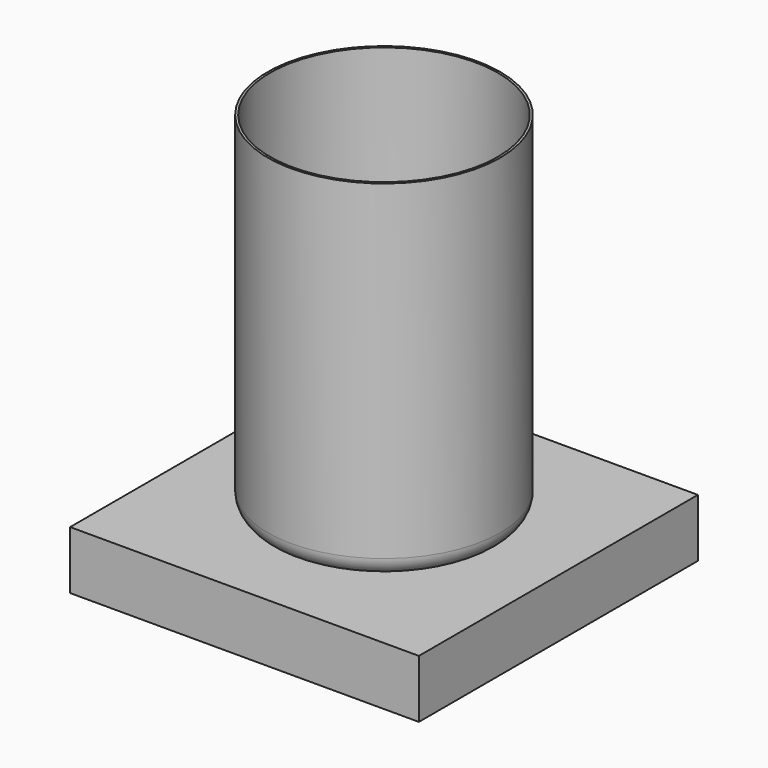
from build123d import *

# Parameters (mm, degrees)
F0_R     = 50
F1_DEPTH = 150
F2_R     = 8
F3_T     = -1
F4_W     = 150
F4_H     = 150
F5_DEPTH = 25


with BuildPart() as f1:
    # F0 (on Top) → F1 (new body)
    with BuildSketch(Plane.XY):
        Circle(F0_R)
    extrude(amount=F1_DEPTH)

    # F2
    f2_edges = [f1.edges().sort_by_distance(p)[0] for p in [
        (-50, 0, 0),
    ]]
    fillet(f2_edges, radius=F2_R)

    # F3
    f3_openings = [f1.faces().sort_by_distance(p)[0] for p in [
        (0, 0, 150),
    ]]
    offset(amount=F3_T, openings=f3_openings)


with BuildPart() as f5:
    # F4 (on Top) → F5 (new body)
    with BuildSketch(Plane.XY):
        Rectangle(F4_W, F4_H)
    extrude(amount=-F5_DEPTH)


solid = Compound([f1.part, f5.part])
